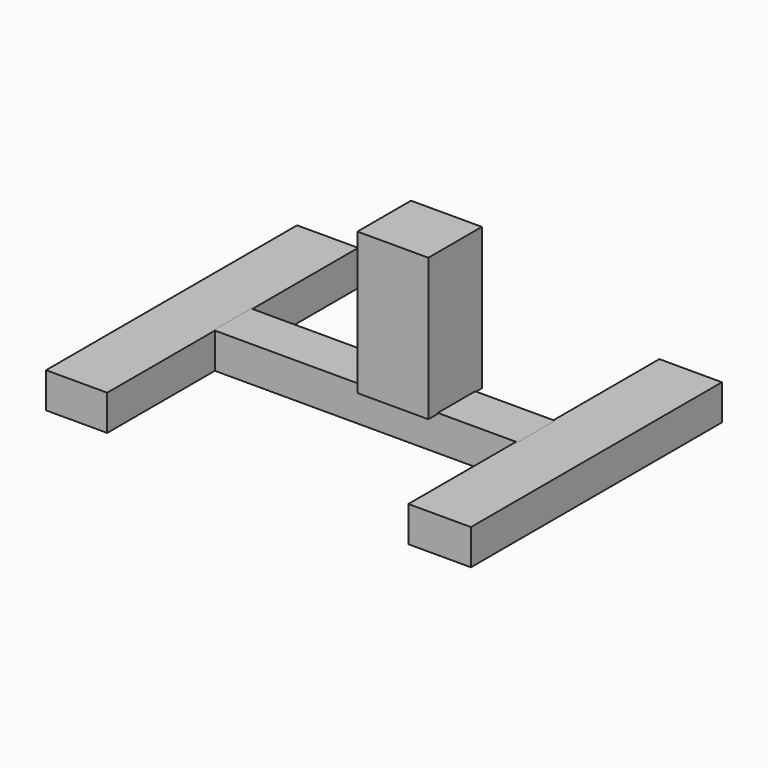
from build123d import *

# Parameters (mm, degrees)
F0_W     = 21.905907
F0_H     = 112.468146
F0_W_2   = 22.440206
F1_DEPTH = 12.7
F2_W     = 108.849324
F2_H     = 16.792183
F3_DEPTH = 12.7
F4_W     = 23.988836
F4_H     = 50.976265
F5_DEPTH = 25.4


with BuildPart() as f1:
    # F0 (on Top) → F1 (new body)
    with BuildSketch(Plane.XY):
        with Locations((-65.450582, 0)):
            Rectangle(F0_W, F0_H)
        with Locations((64.680951, 0)):
            Rectangle(F0_W_2, F0_H)
    extrude(amount=F1_DEPTH)


with BuildPart() as f3:
    # F2 (on Top) → F3 (new body)
    with BuildSketch(Plane.XY):
        with Locations((-0.459276, 0.413755)):
            Rectangle(F2_W, F2_H)
    extrude(amount=F3_DEPTH)

    # F4 (on Right) → F5 (join)
    with BuildSketch(Plane.YZ):
        with Locations((-0.207577, 37.896303)):
            Rectangle(F4_W, F4_H)
    extrude(amount=F5_DEPTH)


solid = Compound([f1.part, f3.part])
